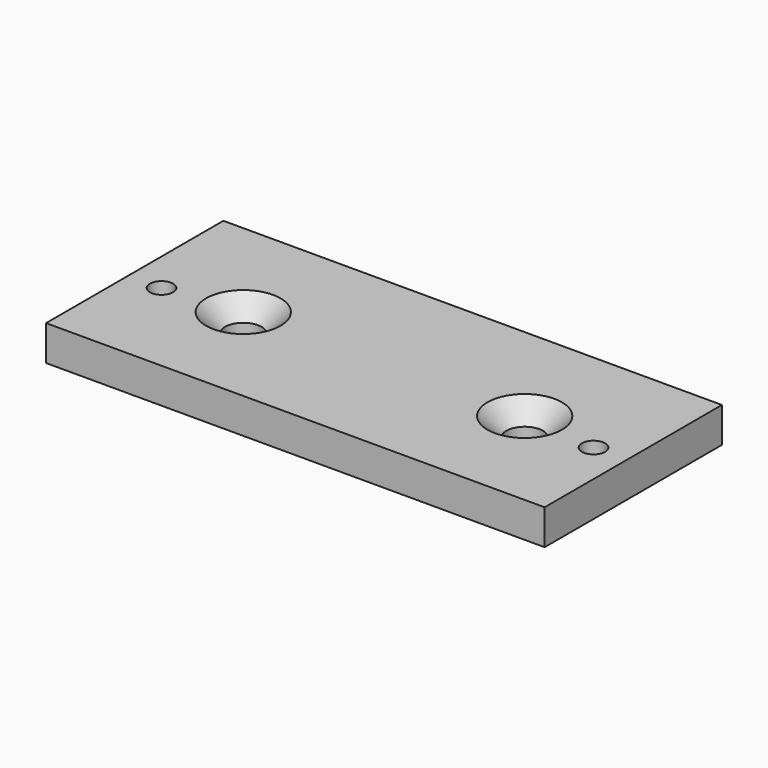
from build123d import *

# Parameters (mm, degrees)
F0_W           = 90
F0_H           = 40
F1_DEPTH       = 6.35
F3_D           = 4.2
F4_D           = 6.6
F4_CSINK_D     = 13.44
F4_CSINK_ANGLE = 90


with BuildPart() as f1:
    # F0 (on Top) → F1 (new body)
    with BuildSketch(Plane.XY):
        Rectangle(F0_W, F0_H)
    extrude(amount=F1_DEPTH)

    # F3 (through all)
    with Locations(Plane.XY.offset(6.35)):
        with Locations((-38.99, -1.46), (38.99, -1.46)):
            Hole(F3_D / 2)

    # F4 (through all)
    with Locations(Plane.XY.offset(6.35)):
        with Locations((-25.4, 0), (25.4, 0)):
            CounterSinkHole(F4_D / 2, F4_CSINK_D / 2, counter_sink_angle=F4_CSINK_ANGLE)


solid = f1.part
